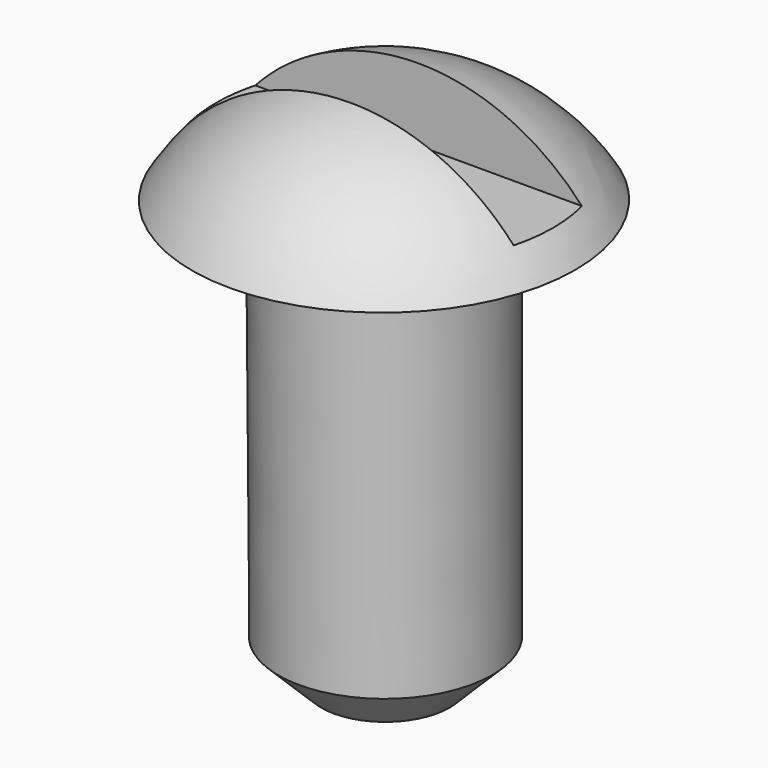
from build123d import *

# Parameters (mm, degrees)
F2_SIZE  = 1.27
F4_START = 4.445
F3_W     = 10.16
F3_H     = 2.54
F4_DEPTH = 20.955


with BuildPart() as f1:
    # F0 (on Front) → F1 (revolve)
    with BuildSketch(Plane.XZ):
        with BuildLine():
            Line((3.2377406023, 3.556), (5.715, 3.556))
            ThreePointArc((5.715, 3.556), (3.2688625698, 5.8839526256), (0, 6.731))
            Line((0, 6.731), (0.0627406023, -9.144))
            Line((0.0627406023, -9.144), (3.2377406023, -9.144))
            Line((3.2377406023, -9.144), (3.2377406023, 3.556))
        make_face()
    revolve(axis=Axis((0.0313703012, 0, -1.2065), (0.0039521331, 0, -0.9999921903)))

    # F2
    f2_edges = [f1.edges().sort_by_distance(p)[0] for p in [
        (-3.11216, 0, -9.169096),
    ]]
    chamfer(f2_edges, length=F2_SIZE)

    # F3 (on Top) → F4 (cut)
    with BuildSketch(Plane.XY.offset(F4_START)):
        Rectangle(F3_W, F3_H)
    extrude(amount=F4_DEPTH, mode=Mode.SUBTRACT)


solid = f1.part
